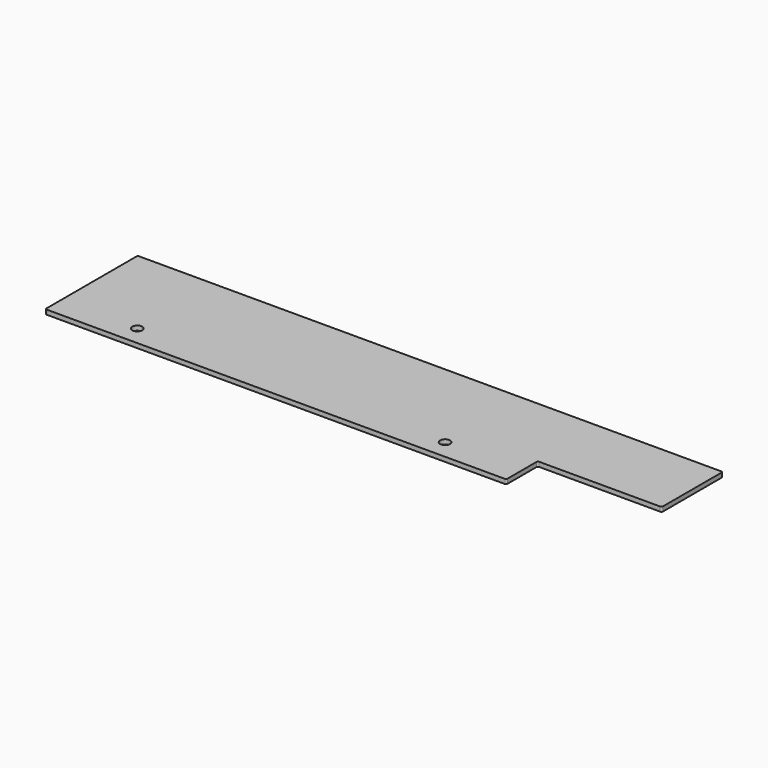
from build123d import *

# Parameters (mm, degrees)
SKETCH_R  = 3.302
PAD_DEPTH = 3


with BuildPart() as part:
    # Sketch → Pad (new body)
    with BuildSketch(Plane.XY):
        with BuildLine():
            Line((0, 75.2), (0, 1))
            ThreePointArc((0, 1), (0.292893, 0.292893), (1, 0))
            Line((1, 0), (303.3, 0))
            ThreePointArc((303.3, 0), (304.007107, 0.292893), (304.3, 1))
            Line((304.3, 1), (304.3, 24.9))
            ThreePointArc((305.3, 25.9), (304.592893, 25.607107), (304.3, 24.9))
            Line((305.3, 25.9), (385.2, 25.9))
            ThreePointArc((385.2, 25.9), (385.907107, 26.192893), (386.2, 26.9))
            Line((386.2, 26.9), (386.2, 75.2))
            ThreePointArc((386.2, 75.2), (385.907107, 75.907107), (385.2, 76.2))
            Line((385.2, 76.2), (1, 76.2))
            ThreePointArc((1, 76.2), (0.292893, 75.907107), (0, 75.2))
        make_face()
        with Locations((50.55, 12.7)):
            Circle(SKETCH_R, mode=Mode.SUBTRACT)
        with Locations((253.75, 12.7)):
            Circle(SKETCH_R, mode=Mode.SUBTRACT)
    extrude(amount=PAD_DEPTH)


solid = part.part
